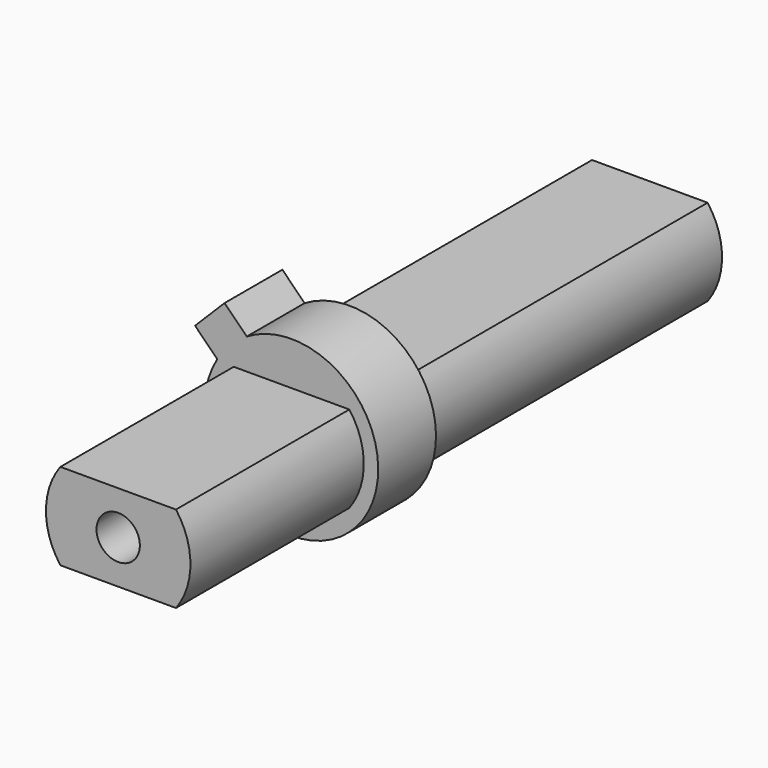
from build123d import *

# Parameters (mm, degrees)
PAD001_DEPTH            = 5
PAD002_DEPTH            = 26
PAD003_DEPTH            = 15
SKETCH016_R             = 1.5
POCKET005_DEPTH         = 5
SKETCH015_R             = 1.5
POCKET006_DEPTH         = 5
BODY002_PLACEMENT_ANGLE = 225


with BuildPart() as part:
    # Sketch004 → Pad001 (new body)
    with BuildSketch(Plane.XZ):
        with BuildLine():
            ThreePointArc((5.823017, 1.446538), (-6, 0), (5.823017, -1.446538))
            Line((5.823017, -1.446538), (8, -1.446538))
            Line((8, -1.446538), (8, 1.446538))
            Line((8, 1.446538), (5.823017, 1.446538))
        make_face()
    extrude(amount=PAD001_DEPTH)

    # Sketch005 (on Face5 of Pad001) → Pad002 (join)
    with BuildSketch(Plane(origin=(0, 0, 0), x_dir=(1, 0, 0), z_dir=(0, 1, 0))):
        with BuildLine():
            ThreePointArc((-0.707105, 4.949749), (-3.535534, 3.535535), (-4.949748, 0.707105))
            Line((-4.949748, 0.707105), (0.707107, -4.949746))
            ThreePointArc((0.707107, -4.949746), (3.535533, -3.535533), (4.949747, -0.707107))
            Line((4.949747, -0.707107), (-0.707105, 4.949749))
        make_face()
    extrude(amount=PAD002_DEPTH)

    # Sketch006 (on Face5 of Pad002) → Pad003 (join)
    with BuildSketch(Plane.XZ.offset(5)):
        with BuildLine():
            ThreePointArc((-4.949747, -0.707107), (-3.535534, -3.535534), (-0.707107, -4.949747))
            Line((-0.707107, -4.949747), (4.949748, 0.707105))
            ThreePointArc((4.949748, 0.707105), (3.535535, 3.535533), (0.707107, 4.949747))
            Line((0.707107, 4.949747), (-4.949747, -0.707107))
        make_face()
    extrude(amount=PAD003_DEPTH)

    # Sketch016 (on Face15 of Pad003) → Pocket005 (cut)
    with BuildSketch(Plane(origin=(0, 26, 0), x_dir=(1, 0, 0), z_dir=(0, 1, 0))):
        Circle(SKETCH016_R)
    extrude(amount=-POCKET005_DEPTH, mode=Mode.SUBTRACT)

    # Sketch015 (on Face16 of Pad003) → Pocket006 (cut)
    with BuildSketch(Plane.XZ.offset(20)):
        Circle(SKETCH015_R)
    extrude(amount=-POCKET006_DEPTH, mode=Mode.SUBTRACT)


with BuildPart() as part_1:
    # Body002 placement: moved
    add(part.part.moved(Location((31, -24, -24.000001))).rotate(Axis((31, -24, -24.000001), (0, 1, 0)), BODY002_PLACEMENT_ANGLE))


solid = part_1.part
